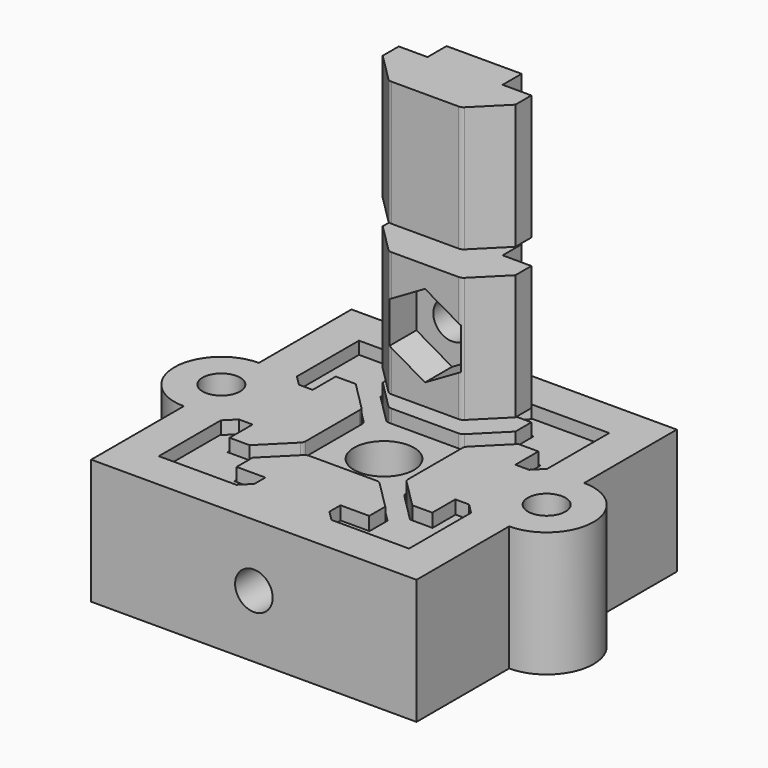
from build123d import *

# Parameters (mm, degrees)
SKETCH_W              = 20
SKETCH_H              = 20
SKETCH_R              = 2.4
PAD_DEPTH             = 10
POCKET_DEPTH          = 10
POLARPATTERN_COUNT    = 4
PAD003_DEPTH          = 10
POCKET001_DEPTH       = 2.7
SKETCH005_R           = 1.5
POCKET002_DEPTH       = 5.901
PAD004_DEPTH          = 10
SKETCH010_R           = 1.5
SKETCH010_W           = 20
SKETCH010_H           = 20
PAD005_DEPTH          = 10
PAD006_DEPTH          = 10
POLARPATTERN001_COUNT = 4
POCKET003_DEPTH       = 2.7
POLARPATTERN002_COUNT = 2
SKETCH013_R           = 1.5
POCKET004_DEPTH       = 17.101
POCKET004_DEPTH_BACK  = 8.901


with BuildPart() as f_2020_profile:
    # Sketch → Pad (new body)
    with BuildSketch(Plane.XY):
        Rectangle(SKETCH_W, SKETCH_H)
        Circle(SKETCH_R, mode=Mode.SUBTRACT)
    extrude(amount=PAD_DEPTH)

    # Sketch001 → Pocket (cut)
    with BuildSketch(Plane.XY):
        with BuildLine():
            Line((-5.4, 8.2), (-5.4, 6.4))
            Line((-5.4, 6.4), (-3.146447, 4.146447))
            ThreePointArc((-3.146447, 4.146447), (-2.984235, 4.03806), (-2.792893, 4))
            Line((2.792893, 4), (-2.792893, 4))
            ThreePointArc((2.792893, 4), (2.984235, 4.03806), (3.146447, 4.146447))
            Line((5.4, 6.4), (3.146447, 4.146447))
            Line((5.4, 8.2), (5.4, 6.4))
            Line((3.1, 8.2), (5.4, 8.2))
            Line((3.1, 9.2), (3.1, 8.2))
            Line((3.9, 10), (3.1, 9.2))
            Line((3.1, 10), (3.9, 10))
            Line((-3.1, 10), (3.1, 10))
            Line((-3.9, 10), (-3.1, 10))
            Line((-3.1, 9.2), (-3.9, 10))
            Line((-3.1, 8.2), (-3.1, 9.2))
            Line((-5.4, 8.2), (-3.1, 8.2))
        make_face()
    pocket = extrude(amount=POCKET_DEPTH, mode=Mode.SUBTRACT)

    # PolarPattern: Pocket ×4 about axis
    polarpattern_axis = Axis((0, 0, 0), (0, 0, 1))
    for i in range(1, POLARPATTERN_COUNT):
        add(pocket.rotate(polarpattern_axis, i * 360 / POLARPATTERN_COUNT), mode=Mode.SUBTRACT)


with BuildPart() as f_2020_slider_nut:
    # Sketch003 → Pad003 (new body)
    with BuildSketch(Plane.XY):
        with BuildLine():
            Line((-5.3, 8.1), (-5.3, 6.5))
            Line((-5.3, 6.5), (-3.046447, 4.246447))
            ThreePointArc((-3.046447, 4.246447), (-2.884235, 4.13806), (-2.692893, 4.1))
            Line((2.692893, 4.1), (-2.692893, 4.1))
            ThreePointArc((2.692893, 4.1), (2.884235, 4.13806), (3.046447, 4.246447))
            Line((5.3, 6.5), (3.046447, 4.246447))
            Line((5.3, 8.1), (5.3, 6.5))
            Line((3, 8.1), (5.3, 8.1))
            Line((3, 9.2), (3, 8.1))
            Line((3, 9.2), (3, 10))
            Line((-3, 10), (3, 10))
            Line((-3, 9.2), (-3, 10))
            Line((-3, 8.1), (-3, 9.2))
            Line((-5.3, 8.1), (-3, 8.1))
        make_face()
    extrude(amount=PAD003_DEPTH)

    # Sketch004 (on DatumPlane) → Pocket001 (cut)
    with BuildSketch(Plane.XZ.offset(-4.1)):
        Polygon((2.85, 3.354552), (2.85, 6.645448), (0, 8.290897), (-2.85, 6.645448), (-2.85, 3.354552), (0, 1.709103), align=None)
    extrude(amount=-POCKET001_DEPTH, mode=Mode.SUBTRACT)

    # Sketch005 (on DatumPlane) → Pocket002 (cut, through all)
    with BuildSketch(Plane.XZ.offset(-4.1)):
        with Locations((0, 5)):
            Circle(SKETCH005_R)
    extrude(amount=-POCKET002_DEPTH, mode=Mode.SUBTRACT)


with BuildPart() as f_2020_slider_nut_1:
    # Body001 placement: moved
    add(f_2020_slider_nut.part.moved(Location((0, 0, 12))))


with BuildPart() as f_2020_slider:
    # Sketch009 → Pad004 (new body)
    with BuildSketch(Plane.XY):
        with BuildLine():
            Line((-5.3, 8.1), (-5.3, 6.5))
            Line((-5.3, 6.5), (-3.046447, 4.246447))
            ThreePointArc((-3.046447, 4.246447), (-2.884235, 4.13806), (-2.692893, 4.1))
            Line((2.692893, 4.1), (-2.692893, 4.1))
            ThreePointArc((2.692893, 4.1), (2.884235, 4.13806), (3.046447, 4.246447))
            Line((5.3, 6.5), (3.046447, 4.246447))
            Line((5.3, 8.1), (5.3, 6.5))
            Line((3, 8.1), (5.3, 8.1))
            Line((3, 9.2), (3, 8.1))
            Line((3, 9.2), (3, 10))
            Line((-3, 10), (3, 10))
            Line((-3, 9.2), (-3, 10))
            Line((-3, 8.1), (-3, 9.2))
            Line((-5.3, 8.1), (-3, 8.1))
        make_face()
    extrude(amount=PAD004_DEPTH)


with BuildPart() as f_2020_slider_1:
    # Body002 placement: moved
    add(f_2020_slider.part.moved(Location((0, 0, 24))))


with BuildPart() as f_2020_profile_socket:
    # Sketch010 → Pad005 (new body)
    with BuildSketch(Plane.XY):
        with BuildLine():
            Line((-13, 13), (13, 13))
            Line((13, 3.75), (13, 13))
            ThreePointArc((13, -3.75), (16.75, 0), (13, 3.75))
            Line((13, -13), (13, -3.75))
            Line((13, -13), (-13, -13))
            Line((-13, -3.75), (-13, -13))
            ThreePointArc((-13, 3.75), (-16.75, 0), (-13, -3.75))
            Line((-13, 13), (-13, 3.75))
        make_face()
        with Locations((-13, 0)):
            Circle(SKETCH010_R, mode=Mode.SUBTRACT)
        with Locations((13, 0)):
            Circle(SKETCH010_R, mode=Mode.SUBTRACT)
        Rectangle(SKETCH010_W, SKETCH010_H, mode=Mode.SUBTRACT)
    extrude(amount=PAD005_DEPTH)

    # Sketch011 → Pad006 (join)
    with BuildSketch(Plane.XY):
        with BuildLine():
            Line((-5.3, 8.1), (-5.3, 6.5))
            Line((-5.3, 6.5), (-3.046447, 4.246447))
            ThreePointArc((-3.046447, 4.246447), (-2.884235, 4.13806), (-2.692893, 4.1))
            Line((2.692893, 4.1), (-2.692893, 4.1))
            ThreePointArc((2.692893, 4.1), (2.884235, 4.13806), (3.046447, 4.246447))
            Line((5.3, 6.5), (3.046447, 4.246447))
            Line((5.3, 8.1), (5.3, 6.5))
            Line((3, 8.1), (5.3, 8.1))
            Line((3, 9.2), (3, 8.1))
            Line((3.8, 10), (3, 9.2))
            Line((-3.8, 10), (3.8, 10))
            Line((-3.8, 10), (-3, 9.2))
            Line((-3, 8.1), (-3, 9.2))
            Line((-5.3, 8.1), (-3, 8.1))
        make_face()
    pad006 = extrude(amount=PAD006_DEPTH)

    # PolarPattern001: Pad006 ×4 about axis
    polarpattern001_axis = Axis((0, 0, 0), (0, 0, 1))
    for i in range(1, POLARPATTERN001_COUNT):
        add(pad006.rotate(polarpattern001_axis, i * 360 / POLARPATTERN001_COUNT))

    # Sketch012 (on DatumPlane) → Pocket003 (cut)
    with BuildSketch(Plane(origin=(0, -4.1, 0), x_dir=(-1, 0, 0), z_dir=(0, 1, 0))):
        Polygon((2.85, 6.645448), (0, 8.290897), (-2.85, 6.645448), (-2.85, 3.354552), (0, 1.709103), (2.85, 3.354552), align=None)
    pocket003 = extrude(amount=-POCKET003_DEPTH, mode=Mode.SUBTRACT)

    # PolarPattern002: Pocket003 ×2 about axis
    polarpattern002_axis = Axis((0, 0, 0), (0, 0, 1))
    for i in range(1, POLARPATTERN002_COUNT):
        add(pocket003.rotate(polarpattern002_axis, i * 360 / POLARPATTERN002_COUNT), mode=Mode.SUBTRACT)

    # Sketch013 (on DatumPlane) → Pocket004 (cut, two sides)
    with BuildSketch(Plane(origin=(0, -4.1, 0), x_dir=(-1, 0, 0), z_dir=(0, 1, 0))) as pocket004_sk:
        with Locations((0, 5)):
            Circle(SKETCH013_R)
    extrude(amount=POCKET004_DEPTH, mode=Mode.SUBTRACT)
    extrude(pocket004_sk.sketch, amount=-POCKET004_DEPTH_BACK, mode=Mode.SUBTRACT)


with BuildPart() as f_2020_profile_socket_1:
    # Body003 placement: moved
    add(f_2020_profile_socket.part.moved(Location((0, 0, 1))))


solid = Compound([f_2020_profile.part, f_2020_slider_nut_1.part, f_2020_slider_1.part, f_2020_profile_socket_1.part])
